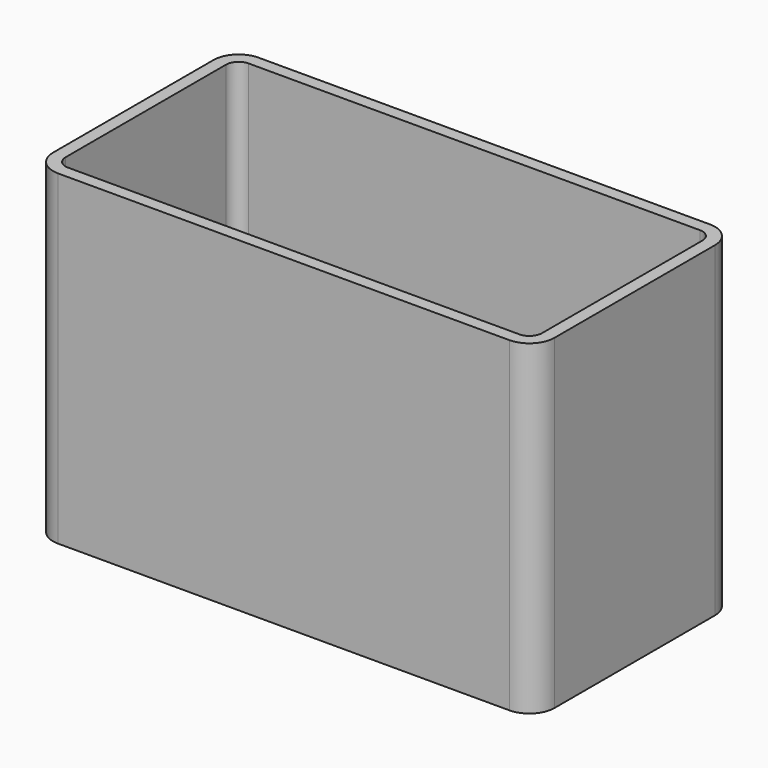
from build123d import *

# Parameters (mm, degrees)
F0_W     = 100
F0_H     = 65
F1_DEPTH = 50
F2_R     = 5
F3_T     = -2.5


with BuildPart() as f1:
    # F0 (on Front) → F1 (new body)
    with BuildSketch(Plane.XZ):
        Rectangle(F0_W, F0_H)
    extrude(amount=F1_DEPTH)

    # F2
    f2_edges = [f1.edges().sort_by_distance(p)[0] for p in [
        (-50, -50, 0),
        (-50, 0, 0),
        (50, -50, 0),
        (50, 0, 0),
    ]]
    fillet(f2_edges, radius=F2_R)

    # F3
    f3_openings = [f1.faces().sort_by_distance(p)[0] for p in [
        (0, -25, 32.5),
        (0, -25, -32.5),
    ]]
    offset(amount=F3_T, openings=f3_openings)


solid = f1.part
